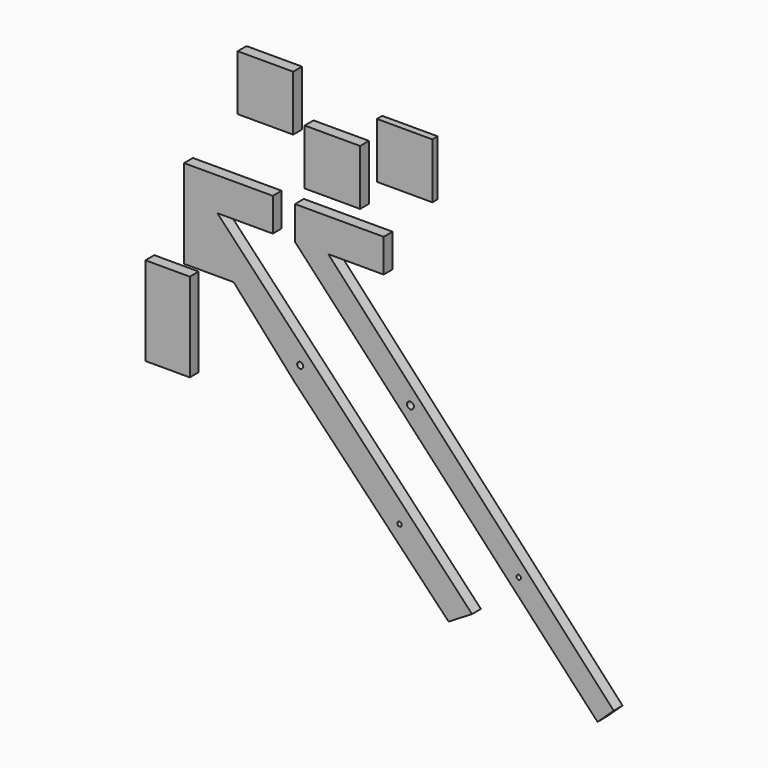
from build123d import *

# Parameters (mm, degrees)
F1_R      = 1
F1_R_2    = 1.367219
F2_DEPTH  = 5
F0_R      = 1
F0_R_2    = 1.559672
F3_DEPTH  = 5
F4_W      = 25
F4_H      = 25
F5_DEPTH  = 3
F6_W      = 25
F6_H      = 25
F7_DEPTH  = 5
F8_W      = 25
F8_H      = 25
F9_DEPTH  = 5
F10_W     = 20
F10_H     = 40
F11_DEPTH = 5


with BuildPart() as f2:
    # F1 (on Front) → F2 (new body)
    with BuildSketch(Plane.XZ):
        Polygon((-35, 0), (-10, 0), (-10, 15), (-50, 15), (-50, 0), (-27.63932, -25), (0, -55.901699), (69.295436, -128.253713), (79.858281, -121.831857), align=None)
        with Locations((47.150847, -96.756466)):
            Circle(F1_R, mode=Mode.SUBTRACT)
        with Locations((2.377605, -48.260119)):
            Circle(F1_R_2, mode=Mode.SUBTRACT)
        Polygon((-27.63932, -25), (-50, 0), (-50, -25), align=None)
    extrude(amount=F2_DEPTH)


with BuildPart() as f3:
    # F0 (on Front) → F3 (new body)
    with BuildSketch(Plane.XZ):
        Polygon((0, 15), (0, 0), (136.437785, -146.235191), (143.749544, -139.413301), (15, 0), (40, 0), (40, 15), align=None)
        with Locations((100.888878, -100.351766)):
            Circle(F0_R, mode=Mode.SUBTRACT)
        with Locations((52.068237, -48.012901)):
            Circle(F0_R_2, mode=Mode.SUBTRACT)
    extrude(amount=F3_DEPTH)


with BuildPart() as f5:
    # F4 (on Front) → F5 (new body)
    with BuildSketch(Plane.XZ):
        with Locations((47.862262, 46.984476)):
            Rectangle(F4_W, F4_H)
    extrude(amount=F5_DEPTH)


with BuildPart() as f7:
    # F6 (on Front) → F7 (new body)
    with BuildSketch(Plane.XZ):
        with Locations((-13.309981, 54.780201)):
            Rectangle(F6_W, F6_H)
    extrude(amount=F7_DEPTH)


with BuildPart() as f9:
    # F8 (on Front) → F9 (new body)
    with BuildSketch(Plane.XZ):
        with Locations((16.883476, 35.104544)):
            Rectangle(F8_W, F8_H)
    extrude(amount=F9_DEPTH)


with BuildPart() as f11:
    # F10 (on Front) → F11 (new body)
    with BuildSketch(Plane.XZ):
        with Locations((-57.439094, -49.257416)):
            Rectangle(F10_W, F10_H)
    extrude(amount=F11_DEPTH)


solid = Compound([f2.part, f3.part, f5.part, f7.part, f9.part, f11.part])
